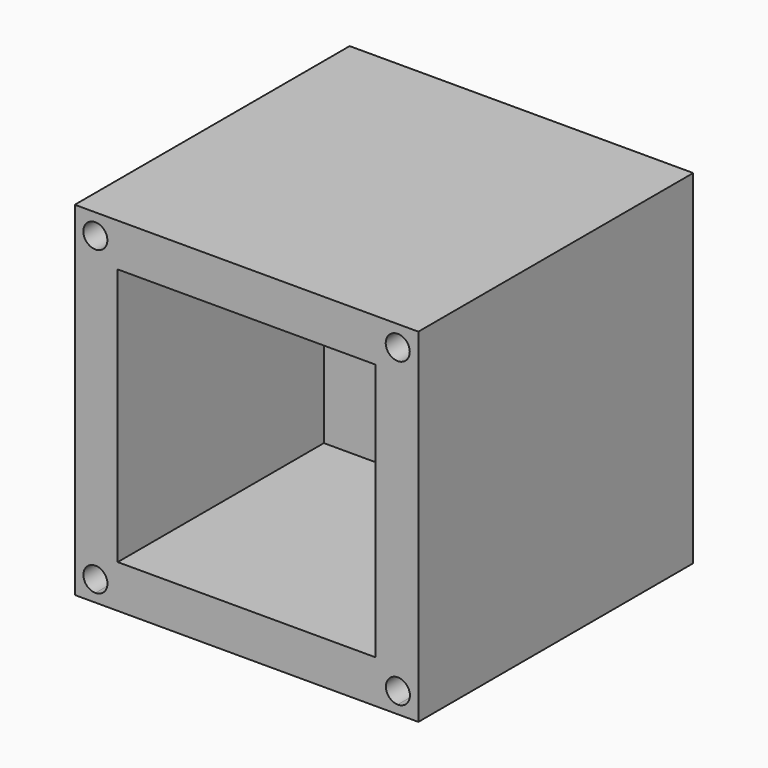
from build123d import *

# Parameters (mm, degrees)
F0_W     = 19.05
F0_H     = 19.05
F1_DEPTH = 25.4
F2_W     = 19.05
F2_H     = 19.05
F3_DEPTH = 6.35
F4_R     = 0.889
F5_DEPTH = 19.05


with BuildPart() as f1:
    # F0 (on Front) → F1 (new body)
    with BuildSketch(Plane.XZ):
        Polygon((12.7, -12.7), (12.7, 12.7), (11.176, 12.7), (-11.176, 12.7), (-12.7, 12.7), (-12.7, -12.7), (-11.176, -12.7), (11.176, -12.7), align=None)
        with BuildLine():
            ThreePointArc((-10.284095511, -11.1804986587), (-10.5455053146, -11.8101426417), (-11.176, -12.069493914))
            ThreePointArc((-11.176, -12.069493914), (-11.8006857075, -10.5508546757), (-10.284095511, -11.1804986587))
        make_face(mode=Mode.SUBTRACT)
        Rectangle(F0_W, F0_H, mode=Mode.SUBTRACT)
        with BuildLine():
            ThreePointArc((12.0763947175, -11.1804986587), (11.8119710123, -11.813132401), (11.176, -12.0694256301))
            ThreePointArc((11.176, -12.0694256301), (10.5628184227, -10.5478649164), (12.0763947175, -11.1804986587))
        make_face(mode=Mode.SUBTRACT)
        with BuildLine():
            ThreePointArc((-10.2897327763, 11.1719880705), (-11.8083161457, 10.5443370679), (-11.176, 12.0609838702))
            ThreePointArc((-11.176, 12.0609838702), (-10.5491494068, 11.799639073), (-10.2897327763, 11.1719880705))
        make_face(mode=Mode.SUBTRACT)
        with BuildLine():
            ThreePointArc((12.065, 11.176), (10.5473820715, 10.5473820715), (11.176, 12.065))
            ThreePointArc((11.176, 12.065), (11.8046179285, 11.8046179285), (12.065, 11.176))
        make_face(mode=Mode.SUBTRACT)
    extrude(amount=F1_DEPTH)

    # F2 (on Front) → F3 (join)
    with BuildSketch(Plane.XZ):
        Rectangle(F2_W, F2_H)
    extrude(amount=F3_DEPTH)

    # F4 (on face) → F5 (join)
    with BuildSketch(Plane(origin=(0, 0, 0), x_dir=(-1, 0, 0), z_dir=(0, 1, 0))):
        with Locations((11.1787327763, 11.1719880705)):
            Circle(F4_R)
        with Locations((-11.1873947175, -11.1804986587)):
            Circle(F4_R)
        with Locations((11.173095511, -11.1804986587)):
            Circle(F4_R)
        with Locations((-11.176, 11.176)):
            Circle(F4_R)
    extrude(amount=-F5_DEPTH)


solid = f1.part
